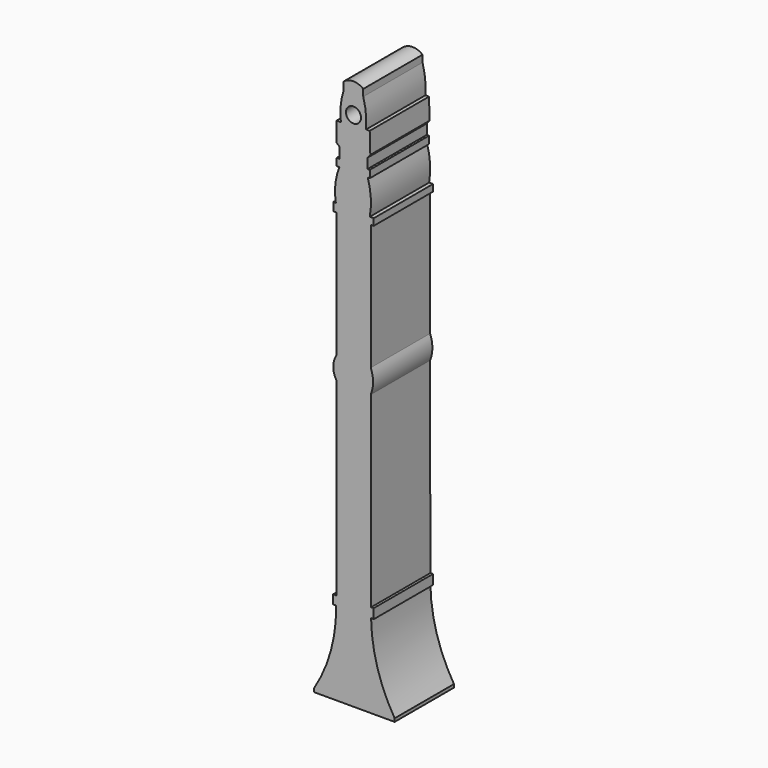
from build123d import *

# Parameters (mm, degrees)
F1_DEPTH = 6.35
F2_R     = 0.644758
F3_DEPTH = 25.4


with BuildPart() as f1:
    # F0 (on Front) → F1 (new body)
    with BuildSketch(Plane.XZ):
        with BuildLine():
            Line((25.17445, 3.023418), (25.17445, 2.716777))
            Line((25.17445, 2.716777), (32.078393, 2.716777))
            Line((32.078393, 2.716777), (32.078393, 2.990841))
            ThreePointArc((32.078393, 2.990841), (30.603017, 6.307852), (30.058628, 9.897131))
            Line((30.058628, 9.897131), (30.28239, 9.87622))
            Line((30.28239, 9.87622), (30.281023, 10.708957))
            Line((30.281023, 10.708957), (30.058628, 10.708592))
            Line((30.058628, 10.708592), (30.032312, 26.736625))
            ThreePointArc((30.032312, 26.736625), (30.230598, 27.749797), (30.032312, 28.76297))
            Line((30.032312, 28.76297), (30.032312, 39.550062))
            Line((30.032312, 39.550062), (30.288203, 39.550062))
            Line((30.288203, 39.550062), (30.288203, 40.125817))
            Line((30.288203, 40.125817), (29.952377, 40.125817))
            ThreePointArc((29.952377, 40.125817), (30.032838, 41.588816), (29.772134, 43.030646))
            Line((29.772134, 43.030646), (29.952377, 43.030646))
            Line((29.952377, 43.030646), (29.952377, 43.664742))
            Line((29.952377, 43.664742), (29.76134, 43.664742))
            Line((29.76134, 43.664742), (29.76134, 44.51992))
            Line((29.76134, 44.51992), (29.992513, 44.805486))
            Line((29.992513, 44.805486), (29.944122, 46.605572))
            Line((29.944122, 46.605572), (29.634174, 46.605572))
            ThreePointArc((29.634174, 46.605572), (29.616481, 47.812826), (29.387884, 48.998371))
            Line((29.387884, 48.998371), (29.387884, 49.584199))
            ThreePointArc((29.387884, 49.584199), (28.53754, 49.887952), (27.687196, 49.584199))
            Line((27.687196, 49.584199), (27.687196, 48.860144))
            ThreePointArc((27.687196, 48.860144), (27.454964, 47.667764), (27.470311, 46.453077))
            Line((27.470311, 46.453077), (27.107688, 46.453077))
            Line((27.107688, 46.453077), (27.107688, 44.781074))
            Line((27.107688, 44.781074), (27.341686, 44.570461))
            Line((27.341686, 44.570461), (27.341686, 43.647271))
            Line((27.341686, 43.647271), (27.11089, 43.647271))
            Line((27.11089, 43.647271), (27.11089, 43.017823))
            Line((27.11089, 43.017823), (27.341686, 43.017823))
            ThreePointArc((27.341686, 43.017823), (27.001183, 41.641173), (27.039019, 40.223543))
            Line((27.039019, 40.223543), (26.824152, 40.223543))
            Line((26.824152, 40.223543), (26.824152, 39.525226))
            Line((26.824152, 39.525226), (27.076719, 39.525226))
            Line((27.076719, 39.525226), (27.076719, 28.713278))
            ThreePointArc((27.076719, 28.713278), (26.816318, 27.800124), (27.076719, 26.88697))
            Line((27.076719, 26.88697), (27.076719, 17.01922))
            Line((27.076719, 17.01922), (27.076719, 10.628499))
            Line((27.076719, 10.628499), (26.79955, 10.628499))
            Line((26.79955, 10.628499), (26.79955, 9.864554))
            Line((26.79955, 9.864554), (27.061559, 9.864554))
            ThreePointArc((27.061559, 9.864554), (26.613776, 6.307229), (25.17445, 3.023418))
        make_face()
    extrude(amount=F1_DEPTH)

    # F2 (on face) → F3 (cut)
    with BuildSketch(Plane.XZ.offset(6.35)):
        with Locations((28.552243, 47.344215)):
            Circle(F2_R)
    extrude(amount=-F3_DEPTH, mode=Mode.SUBTRACT)


solid = f1.part
